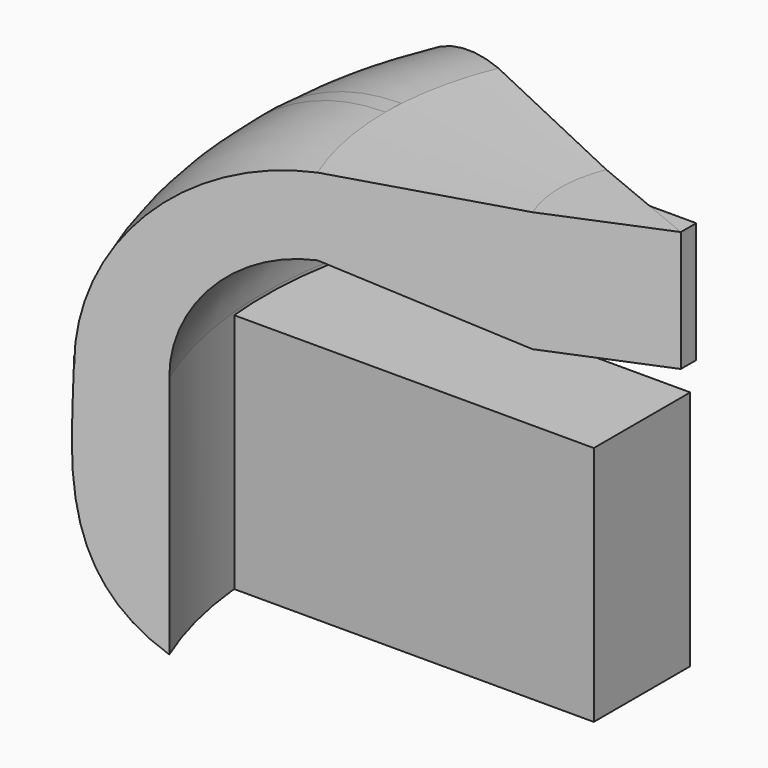
from build123d import *

# Parameters (mm, degrees)
F0_W          = 76.2
F0_H          = 50.8
F1_DEPTH      = 12.7
F0_W_2        = 25.4
F0_H_2        = 25.4
F2_DEPTH      = 4.064
F3_ANGLE_BACK = 22.5
F3_ANGLE      = 45


with BuildPart() as f1:
    # F0 (on Front) → F1 (new body, symmetric)
    with BuildSketch(Plane.XZ):
        Rectangle(F0_W, F0_H)
    extrude(amount=F1_DEPTH, both=True)


with BuildPart() as f2:
    # F0 (on Front) → F2 (new body)
    with BuildSketch(Plane.XZ):
        with BuildLine():
            Line((-38.1, -25.4), (-38.1, 25.4))
            Line((-38.1, 25.4), (-38.1, 26.0029239686))
            ThreePointArc((-38.1, 26.0029239686), (-30.6605122421, 43.9634362108), (-12.7, 51.4029239686))
            Line((-12.7, 51.4029239686), (24.1244458531, 40.2628784252))
            Line((24.1244458531, 40.2628784252), (24.1244458531, 65.6628784252))
            Line((24.1244458531, 65.6628784252), (-12.7, 67.6848888397))
            ThreePointArc((-12.7, 67.6848888397), (-42.1736000135, 55.4765239822), (-54.3819648711, 26.0029239686))
            Line((-54.3819648711, 26.0029239686), (-54.3819648711, 27.5753105516))
            add(Edge.make_bspline(
                [(-38.1, -25.4), (-58.1785941942, -12.335992187), (-54.6845670028, 10.260870759), (-54.3819648711, 27.5753105516)],
                knots=[0, 0, 0, 0, 54.9232516232, 54.9232516232, 54.9232516232, 54.9232516232], degree=3))
        make_face()
        with Locations((36.8244458531, 52.9628784252)):
            Rectangle(F0_W_2, F0_H_2)
    extrude(amount=F2_DEPTH)


with BuildPart() as f3:
    # F2_face (on face) → F3 (revolve)
    with BuildSketch(Plane(origin=(-10.8444306264, -4.064, 40.8061049324), x_dir=(1, 0, 0), z_dir=(0, -1, 0)), mode=Mode.PRIVATE) as f3_sk:
        with BuildLine():
            add(Edge.make_bspline(
                [(-27.2555693736, -66.2061049324), (-47.3341635678, -53.1420971194), (-43.8401363764, -30.5452341734), (-43.5375342447, -13.2307943809)],
                knots=[0, 0, 0, 0, 54.9232516232, 54.9232516232, 54.9232516232, 54.9232516232], degree=3))
            Line((-27.2555693736, -66.2061049324), (-27.2555693736, -14.8031809638))
            ThreePointArc((-27.2555693736, -14.8031809638), (-19.8160816158, 3.1573312783), (-1.8555693736, 10.5968190362))
            Line((-1.8555693736, 10.5968190362), (34.9688764795, -0.5432265072))
            Line((34.9688764795, -0.5432265072), (60.3688764795, -0.5432265072))
            Line((60.3688764795, -0.5432265072), (60.3688764795, 24.8567734928))
            Line((60.3688764795, 24.8567734928), (34.9688764795, 24.8567734928))
            Line((34.9688764795, 24.8567734928), (-1.8555693736, 26.8787839073))
            ThreePointArc((-1.8555693736, 26.8787839073), (-31.3291693871, 14.6704190497), (-43.5375342447, -14.8031809638))
            Line((-43.5375342447, -14.8031809638), (-43.5375342447, -13.2307943809))
        make_face()
    revolve(f3_sk.sketch.rotate(Axis((49.5244458531, -4.064, 52.9628784252), (0, 0, -1)), -F3_ANGLE_BACK), axis=Axis((49.5244458531, -4.064, 52.9628784252), (0, 0, -1)), revolution_arc=F3_ANGLE)


solid = Compound([f1.part, f2.part, f3.part])
